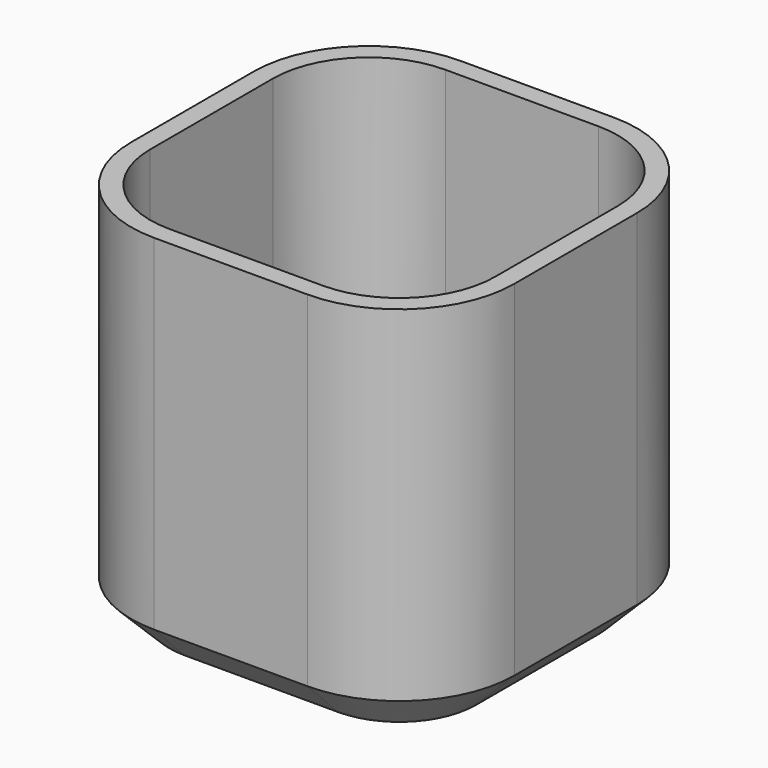
from build123d import *

# Parameters (mm, degrees)
F0_W     = 50
F0_H     = 50
F1_DEPTH = 50
F2_R     = 15
F3_SIZE  = 5
F4_T     = -2.5


with BuildPart() as f1:
    # F0 (on Top) → F1 (new body)
    with BuildSketch(Plane.XY):
        Rectangle(F0_W, F0_H)
    extrude(amount=F1_DEPTH)

    # F2
    f2_edges = [f1.edges().sort_by_distance(p)[0] for p in [
        (-25, -25, 25),
        (25, -25, 25),
        (25, 25, 25),
        (-25, 25, 25),
    ]]
    fillet(f2_edges, radius=F2_R)

    # F3
    f3_edges = [f1.edges().sort_by_distance(p)[0] for p in [
        (20.606602, 20.606602, 0),
        (20.606602, -20.606602, 0),
        (-20.606602, -20.606602, 0),
        (-20.606602, 20.606602, 0),
    ]]
    chamfer(f3_edges, length=F3_SIZE)

    # F4
    f4_openings = [f1.faces().sort_by_distance(p)[0] for p in [
        (0, 0, 50),
    ]]
    offset(amount=F4_T, openings=f4_openings)


solid = f1.part
